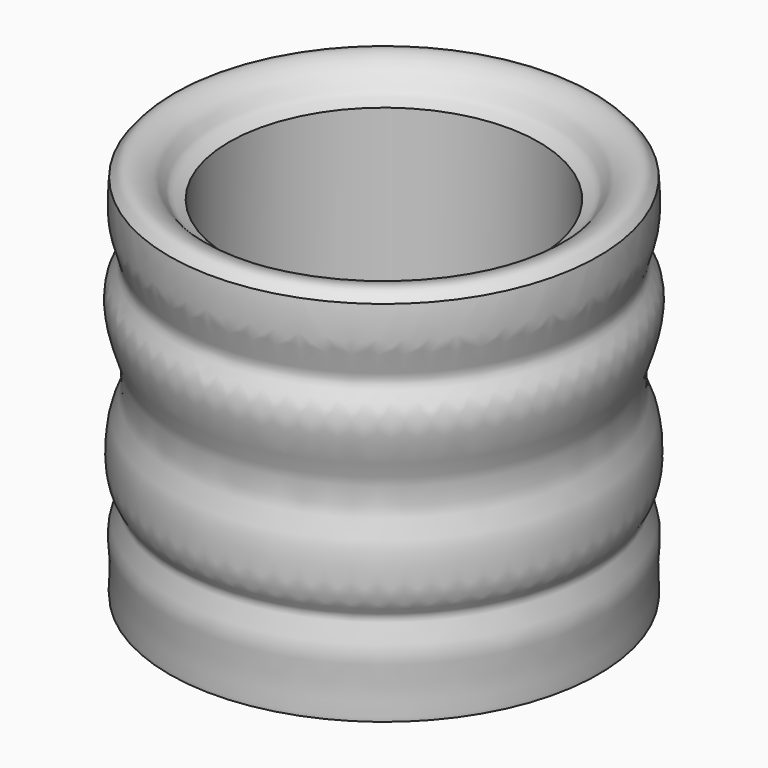
from build123d import *


with BuildPart() as f1:
    # F0 (on Front) → F1 (revolve)
    with BuildSketch(Plane.XZ):
        with BuildLine():
            Line((-70, 0), (0, 0))
            Line((0, 0), (0, 0.8))
            Line((0, 0.8), (-45.4977330565, 0.8))
            ThreePointArc((-45.4977330565, 0.8), (-49.0332669625, 2.2644660941), (-50.4977330565, 5.8))
            Line((-50.4977330565, 5.8), (-50.4977330565, 13))
            ThreePointArc((-50.4977330565, 13), (-49.0332669625, 16.5355339059), (-45.4977330565, 18))
            Line((-45.4977330565, 18), (0, 18))
            Line((0, 18), (0, 20))
            Line((0, 20), (-50.5, 20))
            Line((-50.5, 20), (-50.5, 113.6491447687))
            add(Edge.make_bspline(
                [(-70, 120), (-69.0057608728, 121.2837992003), (-66.5949355182, 124.4382161707), (-57.2096312289, 120.6619679262), (-55.5912325079, 115.2589612242), (-51.629609738, 114.3271238381), (-50.5, 113.6491447687)],
                knots=[0, 0, 0, 0, 0.2275265042, 0.5315146934, 0.7731432701, 1, 1, 1, 1], degree=3))
            add(Edge.make_bspline(
                [(-70, 120), (-70.0269571315, 118.2030955428), (-71.5299145156, 106.5335242905), (-65.286585566, 96.2624803219), (-72.5140094545, 89.6836187758), (-70.3852820639, 76.3231067169), (-66.9605996718, 69.0775345081), (-66.2122645847, 58.2727022785), (-71.0577673453, 51.3055575454), (-71.5586859349, 33.3768626471), (-66.0429140164, 29.0248231213), (-71.0802218895, 20.4607702354), (-69.8135194971, 13.0072184979), (-69.8935132902, 7.4237564048), (-69.9292895128, 3.5091959978), (-70.2145140705, 1.0798557988), (-70, 0)],
                knots=[0, 0, 0, 0, 0.0876023674, 0.17028846, 0.2393419634, 0.3263442323, 0.3985516553, 0.4750799991, 0.5485070779, 0.649081933, 0.7081750786, 0.7796632202, 0.8480100293, 0.9057486289, 0.9543718308, 1, 1, 1, 1], degree=3))
        make_face()
    revolve(axis=Axis((0, 0, 19), (0, 0, -1)))


solid = f1.part
